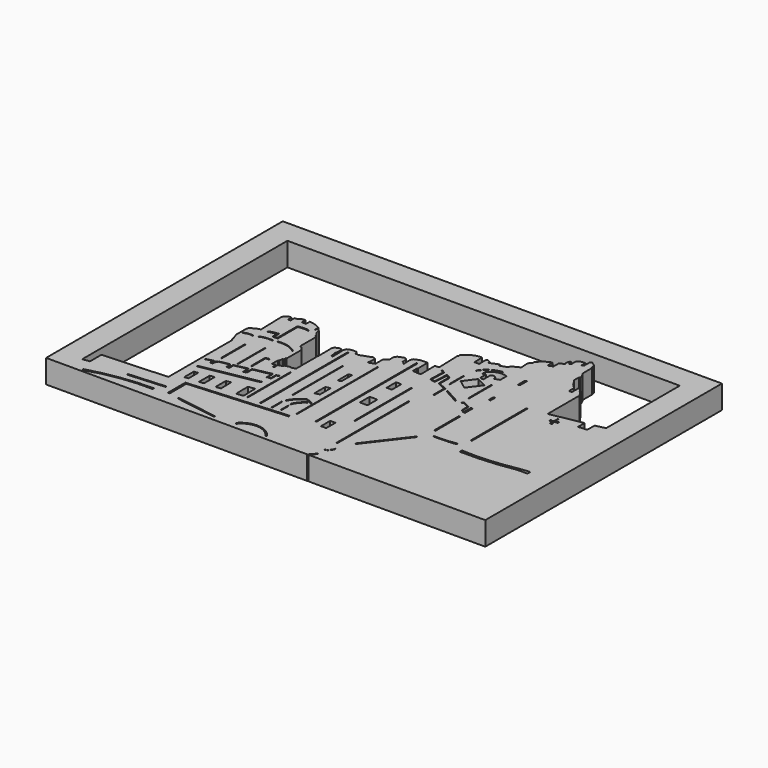
from build123d import *

# Parameters (mm, degrees)
F0_W     = 5.703181
F0_H     = 12.547013
F0_W_2   = 8.310363
F0_H_2   = 13.361752
F0_W_3   = 1.173794
F0_H_3   = 137.001861
F0_H_4   = 12.87292
F1_DEPTH = 25.4


with BuildPart() as f1:
    # F0 (on Top) → F1 (new body)
    with BuildSketch(Plane.XY):
        with BuildLine():
            Line((-166.419402, 0), (0, 0))
            Line((0, 0), (25.4, 0))
            Line((25.4, 0), (25.4, 320.76581))
            Line((25.4, 320.76581), (-450.85, 320.76581))
            Line((-450.85, 320.76581), (-450.85, 0))
            Line((-450.85, 0), (-425.45, 0))
            Line((-425.45, 0), (-167.698771, 0))
            ThreePointArc((-167.698771, 0), (-164.538102, 3.268741), (-161.885396, 6.96166))
            Line((-161.885396, 6.96166), (-161.205068, 6.33493))
            ThreePointArc((-161.205068, 6.33493), (-163.513103, 2.921247), (-166.419402, 0))
        make_face()
        with BuildLine():
            ThreePointArc((-413.735271, 3.597007), (-379.616688, 10.958901), (-344.81293, 13.599655))
            Line((-344.81293, 13.599655), (-344.538897, 11.68134))
            ThreePointArc((-344.538897, 11.68134), (-379.151449, 9.696986), (-412.913144, 1.815715))
            Line((-412.913144, 1.815715), (-413.735271, 3.597007))
        make_face(mode=Mode.SUBTRACT)
        Polygon((-378.246427, 18.806513), (-378.383458, 20.176737), (-338.646919, 22.780167), (-338.565882, 21.543295), align=None, mode=Mode.SUBTRACT)
        Polygon((-337.461114, 58.438767), (-333.183706, 59.131298), (-333.183706, 45.932494), (-337.461114, 45.484386), align=None, mode=Mode.SUBTRACT)
        Polygon((-272.280157, 4.340884), (-317.284077, 11.510602), (-317.284077, 12.977137), (-272.280157, 5.807417), align=None, mode=Mode.SUBTRACT)
        with BuildLine():
            Line((-215.356663, 5.197097), (-216.315821, 3.826871))
            ThreePointArc((-216.315821, 3.826871), (-232.387056, 13.686317), (-249.612302, 6.019232))
            Line((-249.612302, 6.019232), (-250.708491, 7.526481))
            ThreePointArc((-250.708491, 7.526481), (-232.467344, 14.940032), (-215.356663, 5.197097))
        make_face(mode=Mode.SUBTRACT)
        Polygon((-223.524138, 46.037544), (-223.270327, 44.530902), (-328.371912, 37.035283), (-328.371912, 14.548433), (-330.393344, 14.548433), (-330.393344, 38.28638), align=None, mode=Mode.SUBTRACT)
        Polygon((-317.337006, 61.738469), (-317.284077, 47.1403), (-322.306931, 46.625022), (-322.306931, 61.127413), align=None, mode=Mode.SUBTRACT)
        Polygon((-300.425321, 62.836416), (-300.134629, 48.884317), (-305.56044, 47.915421), (-305.56044, 62.061299), align=None, mode=Mode.SUBTRACT)
        Polygon((-277.268708, 66.324443), (-276.784241, 50.143879), (-284.244746, 49.271874), (-284.341633, 65.549321), align=None, mode=Mode.SUBTRACT)
        Polygon((-244.282936, 47.928814), (-245.104954, 48.096821), (-245.104954, 62.048919), (-244.282936, 62.074723), align=None, mode=Mode.SUBTRACT)
        Polygon((-235.393118, 49.188375), (-236.191109, 49.453273), (-236.191109, 59.529789), (-235.393118, 59.795786), align=None, mode=Mode.SUBTRACT)
        Polygon((-335.089654, 92.287287), (-335.089654, 124.076515), (-334.130496, 124.350555), (-334.130496, 92.287287), align=None, mode=Mode.SUBTRACT)
        with BuildLine():
            Line((-339.318782, 141.643718), (-339.261174, 140.779555))
            ThreePointArc((-339.261174, 140.779555), (-344.648349, 141.272833), (-349.631131, 139.166445))
            Line((-349.631131, 139.166445), (-349.803984, 140.261054))
            ThreePointArc((-349.803984, 140.261054), (-344.693209, 141.952069), (-339.318782, 141.643718))
        make_face(mode=Mode.SUBTRACT)
        Polygon((-341.726494, 68.89362), (-280.53686, 79.993084), (-280.708703, 78.696711), (-341.504304, 67.668722), align=None, mode=Mode.SUBTRACT)
        Polygon((-273.009151, 50.034616), (-273.009151, 108.749703), (-272.101462, 108.749703), (-272.101462, 50.183747), align=None, mode=Mode.SUBTRACT)
        Polygon((-344.308555, 82.124658), (-344.356984, 82.851328), (-336.702704, 84.78912), (-336.409608, 80.748047), (-334.958702, 80.816649), (-334.66804, 84.49845), (-332.924008, 86.242467), (-322.072387, 88.374034), (-320.909709, 87.211363), (-320.812821, 82.948215), (-318.971902, 83.04511), (-318.971902, 88.761598), (-305.019826, 91.86206), (-304.14781, 90.602495), (-303.954035, 84.982902), (-301.919341, 85.079789), (-301.822454, 93.024738), (-283.219665, 96.997209), (-282.250762, 96.222088), (-282.250762, 89.439824), (-279.150307, 89.730486), (-279.150307, 96.997209), (-275.565386, 97.966105), (-275.516957, 97.14254), (-278.32675, 96.270531), (-278.32675, 89.342929), (-282.832116, 88.906929), (-283.025891, 95.786087), (-301.095784, 92.201173), (-301.192671, 84.643781), (-304.690414, 84.390092), (-305.115642, 90.252917), (-305.649608, 90.699382), (-318.196803, 88.277146), (-318.196803, 82.318433), (-321.433271, 82.469685), (-321.433271, 86.726911), (-322.120816, 87.502025), (-332.536459, 85.612684), (-333.844453, 84.207781), (-334.377348, 79.993084), (-337.138712, 79.896197), (-337.419349, 83.76548), align=None, mode=Mode.SUBTRACT)
        with BuildLine():
            Line((-226.92622, 74.947481), (-226.394817, 74.081533))
            ThreePointArc((-226.394817, 74.081533), (-232.028736, 69.191094), (-235.780865, 62.742919))
            Line((-235.780865, 62.742919), (-236.730827, 63.103237))
            ThreePointArc((-236.730827, 63.103237), (-232.811377, 69.83896), (-226.92622, 74.947481))
        make_face(mode=Mode.SUBTRACT)
        with BuildLine():
            ThreePointArc((-222.336039, 73.618062), (-226.316974, 76.158174), (-230.746631, 77.794681))
            ThreePointArc((-230.746631, 77.794681), (-237.905795, 72.593653), (-242.94596, 65.320341))
            Line((-242.94596, 65.320341), (-243.866169, 65.751006))
            ThreePointArc((-243.866169, 65.751006), (-238.501276, 73.436967), (-230.862225, 78.868448))
            ThreePointArc((-230.862225, 78.868448), (-226.395313, 77.323097), (-222.336039, 74.901589))
            Line((-222.336039, 74.901589), (-222.336039, 73.618062))
        make_face(mode=Mode.SUBTRACT)
        Polygon((-232.903227, 105.900668), (-227.851838, 107.448675), (-227.851838, 92.457443), (-232.903227, 91.316804), align=None, mode=Mode.SUBTRACT)
        Polygon((-317.550749, 92.492811), (-317.550749, 130.036995), (-316.797137, 130.311042), (-316.797137, 92.698351), align=None, mode=Mode.SUBTRACT)
        Polygon((-305.043301, 115.345323), (-305.043301, 96.718721), (-306.059301, 96.718721), (-306.059301, 116.290301), (-301.629565, 116.611588), (-301.556068, 115.59825), align=None, mode=Mode.SUBTRACT)
        with BuildLine():
            Line((-320.652872, 145.215586), (-320.71048, 144.351423))
            ThreePointArc((-320.71048, 144.351423), (-327.937868, 144.515475), (-334.882766, 142.507881))
            Line((-334.882766, 142.507881), (-335.113198, 143.256813))
            ThreePointArc((-335.113198, 143.256813), (-328.010201, 145.174984), (-320.652872, 145.215586))
        make_face(mode=Mode.SUBTRACT)
        with BuildLine():
            Line((-295.649707, 140.721932), (-295.937806, 140.088215))
            ThreePointArc((-295.937806, 140.088215), (-305.586707, 144.837025), (-316.332042, 145.273194))
            Line((-316.332042, 145.273194), (-316.447258, 146.079749))
            ThreePointArc((-316.447258, 146.079749), (-305.477763, 145.616215), (-295.649707, 140.721932))
        make_face(mode=Mode.SUBTRACT)
        Polygon((-256.78435, 48.678163), (-257.894367, 48.678163), (-257.894367, 167.271003), (-256.78435, 167.555511), align=None, mode=Mode.SUBTRACT)
        Polygon((-245.685726, 77.029936), (-245.685726, 145.40419), (-244.960845, 145.40419), (-244.960845, 76.925404), align=None, mode=Mode.SUBTRACT)
        Polygon((-220.534191, 51.938567), (-221.270114, 51.972404), (-221.270114, 162.814081), (-220.534191, 162.814081), align=None, mode=Mode.SUBTRACT)
        Polygon((-232.169956, 135.638714), (-228.748053, 137.757033), (-228.748053, 122.847281), (-232.169956, 121.869586), align=None, mode=Mode.SUBTRACT)
        with BuildLine():
            Line((-161.245793, 15.256343), (-161.497831, 16.069278))
            ThreePointArc((-161.497831, 16.069278), (-157.657125, 18.778953), (-155.684456, 23.045328))
            Line((-155.684456, 23.045328), (-154.93156, 22.792699))
            ThreePointArc((-154.93156, 22.792699), (-157.157073, 18.24399), (-161.245793, 15.256343))
        make_face(mode=Mode.SUBTRACT)
        with Locations((-188.011006, 53.83872)):
            Rectangle(F0_W, F0_H, mode=Mode.SUBTRACT)
        Polygon((-161.586136, 31.625599), (-161.586136, 129.677847), (-160.502689, 130.038996), (-160.502689, 32.638028), align=None, mode=Mode.SUBTRACT)
        Polygon((-147.815436, 41.940723), (-115.553334, 83.881453), (-114.823222, 82.859501), (-147.815436, 39.841175), align=None, mode=Mode.SUBTRACT)
        with Locations((-188.173958, 108.833738)):
            Rectangle(F0_W_2, F0_H_2, mode=Mode.SUBTRACT)
        with Locations((-199.367508, 120.085781)):
            Rectangle(F0_W_3, F0_H_3, mode=Mode.SUBTRACT)
        Polygon((-175.150678, 73.094338), (-175.150678, 150.218442), (-174.133241, 150.218442), (-174.133241, 72.785638), align=None, mode=Mode.SUBTRACT)
        with Locations((-188.662798, 143.786125)):
            Rectangle(F0_W, F0_H_4, mode=Mode.SUBTRACT)
        Polygon((-109.864541, 101.444872), (-111.203551, 100.998536), (-111.203551, 134.909898), (-109.864541, 134.909898), align=None, mode=Mode.SUBTRACT)
        with BuildLine():
            ThreePointArc((-80.407061, 93.389705), (-92.692464, 92.394067), (-105.017014, 92.227034))
            Line((-105.017014, 92.227034), (-105.017014, 93.311146))
            ThreePointArc((-105.017014, 93.311146), (-92.662771, 93.488007), (-80.407053, 95.055163))
            Line((-80.407053, 95.055163), (-80.407061, 93.389705))
        make_face(mode=Mode.SUBTRACT)
        with BuildLine():
            Line((-11.367482, 91.576859), (0, 92.802502))
            Line((0, 92.802502), (0, 88.836409))
            Line((0, 88.836409), (-10.819401, 88.836409))
            ThreePointArc((-10.819401, 88.836409), (-40.166394, 85.127571), (-69.739096, 84.45169))
            Line((-69.739096, 84.45169), (-69.739096, 87.466188))
            ThreePointArc((-69.739096, 87.466188), (-40.422094, 87.658553), (-11.367482, 91.576859))
        make_face(mode=Mode.SUBTRACT)
        Polygon((-75.548187, 106.230579), (-75.548187, 181.998223), (-74.306914, 182.177559), (-74.306914, 106.269543), align=None, mode=Mode.SUBTRACT)
        with BuildLine():
            ThreePointArc((-320.930719, 178.112566), (-314.650857, 179.036367), (-308.335066, 178.403229))
            Line((-308.335066, 178.403229), (-308.335066, 177.240551))
            ThreePointArc((-308.335066, 177.240551), (-314.051554, 177.914483), (-319.768041, 177.240551))
            Line((-319.768041, 177.240551), (-319.768041, 150.208369))
            Line((-319.768041, 150.208369), (-325.581431, 150.208369))
            Line((-325.581431, 150.208369), (-325.484514, 156.118631))
            ThreePointArc((-325.484514, 156.118631), (-329.909319, 155.637966), (-334.204584, 154.471502))
            Line((-334.204584, 154.471502), (-334.398359, 155.827954))
            ThreePointArc((-334.398359, 155.827954), (-329.41645, 157.056781), (-324.321866, 157.668859))
            Line((-324.321866, 157.668859), (-324.321866, 151.371047))
            Line((-324.321866, 151.371047), (-320.930719, 151.371047))
            Line((-320.930719, 151.371047), (-320.930719, 178.112566))
        make_face(mode=Mode.SUBTRACT)
        with BuildLine():
            Line((-348.190367, 37.38666), (-417.821884, 33.794556))
            Line((-417.821884, 33.794556), (-417.821884, 18.215073))
            Line((-417.821884, 18.215073), (-425.45, 17.244627))
            Line((-425.45, 17.244627), (-425.45, 295.36581))
            Line((-425.45, 295.36581), (0, 295.36581))
            Line((0, 295.36581), (0, 195.700794))
            Line((0, 195.700794), (-10.627794, 193.160787))
            Line((-10.627794, 193.160787), (-10.627794, 183.391556))
            Line((-10.627794, 183.391556), (-20.103946, 182.512328))
            Line((-20.103946, 182.512328), (-20.103946, 191.500023))
            Line((-20.103946, 191.500023), (-55.004522, 185.150027))
            Line((-55.004522, 185.150027), (-55.004522, 228.363693))
            Line((-55.004522, 228.363693), (-58.448177, 233.22387))
            Line((-58.448177, 233.22387), (-59.183624, 233.404636))
            Line((-59.183624, 233.404636), (-59.183624, 234.5099))
            Line((-59.183624, 234.5099), (-63.259281, 239.138186))
            Line((-63.259281, 239.138186), (-64.019144, 237.480298))
            Line((-64.019144, 237.480298), (-64.019144, 229.121745))
            Line((-64.019144, 229.121745), (-67.196772, 229.121745))
            Line((-67.196772, 229.121745), (-67.196772, 235.960558))
            Line((-67.196772, 235.960558), (-70.884967, 239.767184))
            Line((-70.884967, 239.767184), (-71.686901, 239.69081))
            Line((-71.686901, 239.69081), (-71.825057, 241.141468))
            Line((-71.825057, 241.141468), (-76.177031, 247.289494))
            Line((-76.177031, 247.289494), (-76.107949, 253.85198))
            Line((-76.107949, 253.85198), (-75.279005, 254.542768))
            Line((-75.279005, 254.542768), (-75.279005, 255.924344))
            ThreePointArc((-75.279005, 255.924344), (-76.561816, 258.890807), (-78.283928, 261.625737))
            Line((-78.283928, 261.625737), (-78.283928, 274.463236))
            Line((-78.283928, 274.463236), (-79.242378, 274.956971))
            Line((-79.242378, 274.956971), (-79.242378, 276.61249))
            Line((-79.242378, 276.61249), (-78.893848, 276.873887))
            Line((-78.893848, 276.873887), (-78.893848, 277.803302))
            ThreePointArc((-78.893848, 277.803302), (-81.660262, 280.345212), (-84.830755, 282.360732))
            Line((-84.830755, 282.360732), (-86.154871, 281.172425))
            Line((-86.154871, 281.172425), (-86.154871, 274.085671))
            Line((-86.154871, 274.085671), (-88.420309, 272.052586))
            Line((-88.420309, 272.052586), (-88.420309, 277.861387))
            ThreePointArc((-88.420309, 277.861387), (-92.768256, 277.347222), (-96.436478, 274.957001))
            Line((-96.436478, 274.957001), (-96.436478, 268.509209))
            Line((-96.436478, 268.509209), (-97.94677, 267.754048))
            Line((-97.94677, 267.754048), (-98.581769, 268.3402))
            Line((-98.581769, 268.3402), (-98.581769, 270.391762))
            Line((-98.581769, 270.391762), (-98.152354, 270.944089))
            Line((-98.152354, 270.944089), (-98.907501, 271.931589))
            Line((-98.907501, 271.931589), (-99.836908, 271.931589))
            Line((-99.836908, 271.931589), (-101.231031, 269.956619))
            Line((-101.231031, 269.956619), (-101.231031, 267.342627))
            Line((-101.231031, 267.342627), (-100.301616, 266.122788))
            Line((-100.301616, 266.122788), (-100.301616, 265.425712))
            ThreePointArc((-100.301616, 265.425712), (-103.02324, 264.686016), (-105.529554, 263.392657))
            Line((-105.529554, 263.392657), (-105.529554, 256.073564))
            Line((-105.529554, 256.073564), (-110.583231, 254.156649))
            Line((-110.583231, 254.156649), (-110.583231, 259.675026))
            Line((-110.583231, 259.675026), (-110.989846, 259.675026))
            Line((-110.989846, 259.675026), (-110.989846, 261.301488))
            ThreePointArc((-110.989846, 261.301488), (-117.839979, 257.53803), (-123.362631, 252.007365))
            Line((-123.362631, 252.007365), (-123.362631, 249.625757))
            Line((-123.362631, 249.625757), (-124.5244, 249.625757))
            Line((-124.5244, 249.625757), (-126.208961, 246.372819))
            Line((-126.208961, 246.372819), (-125.628069, 237.717673))
            Line((-125.628069, 237.717673), (-134.399384, 233.41915))
            Line((-134.399384, 233.41915), (-134.399384, 231.153712))
            Line((-134.399384, 231.153712), (-142.996445, 228.191212))
            Line((-142.996445, 228.191212), (-143.170714, 230.747089))
            Line((-143.170714, 230.747089), (-152.813345, 226.739004))
            Line((-152.813345, 226.739004), (-152.75526, 228.365466))
            ThreePointArc((-152.75526, 228.365466), (-154.476058, 229.789918), (-156.589076, 230.514735))
            Line((-156.589076, 230.514735), (-157.80893, 228.655905))
            Line((-157.80893, 228.655905), (-157.402322, 220.349297))
            Line((-157.402322, 220.349297), (-162.688345, 220.465481))
            Line((-162.688345, 220.465481), (-162.978783, 231.269881))
            ThreePointArc((-162.978783, 231.269881), (-172.68156, 229.029173), (-180.34716, 222.67282))
            Line((-180.34716, 222.67282), (-180.34716, 220.988274))
            Line((-180.34716, 220.988274), (-180.986136, 220.349297))
            Line((-180.986136, 220.349297), (-180.172905, 194.441974))
            Line((-180.172905, 194.441974), (-184.645697, 194.32579))
            Line((-184.645697, 194.32579), (-184.297174, 174.750075))
            Line((-184.297174, 174.750075), (-189.060405, 174.517721))
            Line((-189.060405, 174.517721), (-189.00232, 175.098598))
            Line((-189.00232, 175.098598), (-192.545697, 175.040513))
            Line((-192.545697, 175.040513), (-193.417013, 175.737575))
            Line((-193.417013, 175.737575), (-193.533182, 180.675074))
            Line((-193.533182, 180.675074), (-192.778051, 181.54639))
            Line((-192.778051, 181.54639), (-193.01039, 194.848582))
            Line((-193.01039, 194.848582), (-200.852305, 194.732413))
            Line((-200.852305, 194.732413), (-206.603035, 192.23462))
            Line((-206.603035, 192.23462), (-207.706705, 189.678743))
            Line((-207.706705, 189.678743), (-207.474351, 180.500805))
            Line((-207.474351, 180.500805), (-209.158912, 182.359621))
            Line((-209.158912, 182.359621), (-210.753344, 183.114767))
            Line((-210.753344, 183.114767), (-210.753344, 187.43216))
            Line((-210.753344, 187.43216), (-211.59862, 189.097852))
            Line((-211.59862, 189.097852), (-213.631704, 189.969182))
            Line((-213.631704, 189.969182), (-220.253766, 187.413305))
            Line((-220.253766, 187.413305), (-221.938312, 184.39272))
            Line((-221.938312, 184.39272), (-221.938312, 178.70006))
            Line((-221.938312, 178.70006), (-225.830227, 176.72506))
            Line((-225.830227, 176.72506), (-226.353019, 174.75006))
            Line((-226.353019, 174.75006), (-226.353019, 165.630221))
            Line((-226.353019, 165.630221), (-233.062208, 163.393825))
            Line((-233.062208, 163.393825), (-233.062208, 164.410368))
            Line((-233.062208, 164.410368), (-232.48446, 164.864868))
            Line((-232.48446, 164.864868), (-232.208148, 171.6346))
            Line((-232.208148, 171.6346), (-232.898936, 173.223421))
            Line((-232.898936, 173.223421), (-235.040382, 173.914209))
            Line((-235.040382, 173.914209), (-247.819945, 169.285938))
            Line((-247.819945, 169.285938), (-249.754146, 169.838563))
            Line((-249.754146, 169.838563), (-251.204818, 169.285938))
            Line((-251.204818, 169.285938), (-250.928491, 169.907644))
            Line((-250.928491, 169.907644), (-250.721246, 170.253038))
            Line((-250.721246, 170.253038), (-252.517313, 172.947124))
            Line((-252.517313, 172.947124), (-257.76729, 173.085272))
            Line((-257.76729, 173.085272), (-262.464672, 171.151072))
            Line((-262.464672, 171.151072), (-263.224542, 168.456987))
            Line((-263.224542, 168.456987), (-262.879133, 153.950423))
            Line((-262.879133, 153.950423), (-264.606118, 153.190553))
            Line((-264.606118, 153.190553), (-264.744282, 158.302397))
            Line((-264.744282, 158.302397), (-265.365988, 158.647791))
            Line((-265.365988, 158.647791), (-265.227824, 160.927385))
            Line((-265.227824, 160.927385), (-264.813364, 161.8945))
            Line((-264.813364, 161.8945), (-264.813364, 166.86818))
            Line((-264.813364, 166.86818), (-265.504152, 168.526068))
            Line((-265.504152, 168.526068), (-267.438352, 169.078693))
            Line((-267.438352, 169.078693), (-271.790326, 167.558968))
            Line((-271.790326, 167.558968), (-273.182184, 165.14121))
            Line((-273.182184, 165.14121), (-272.895604, 146.869838))
            Line((-272.895604, 146.869838), (-273.182184, 145.819694))
            Line((-273.182184, 145.819694), (-273.182184, 116.65675))
            Line((-273.182184, 116.65675), (-278.439939, 115.41117))
            Line((-278.439939, 115.41117), (-278.439939, 116.398342))
            Line((-278.439939, 116.398342), (-284.597307, 114.655696))
            Line((-284.597307, 114.655696), (-284.539223, 113.493934))
            Line((-284.539223, 113.493934), (-289.418608, 112.099819))
            Line((-289.418608, 112.099819), (-289.302438, 107.104234))
            Line((-289.302438, 107.104234), (-290.638477, 106.871881))
            Line((-290.638477, 106.871881), (-290.522307, 111.344673))
            Line((-290.522307, 111.344673), (-291.771084, 111.55989))
            Line((-291.771084, 111.55989), (-294.701844, 110.8272))
            Line((-294.701844, 110.8272), (-294.701844, 119.131044))
            Line((-294.701844, 119.131044), (-293.724924, 119.863741))
            Line((-293.724924, 119.863741), (-293.236464, 123.722583))
            Line((-293.236464, 123.722583), (-291.966468, 123.722583))
            Line((-291.966468, 123.722583), (-291.966468, 124.992587))
            Line((-291.966468, 124.992587), (-291.966468, 126.555666))
            Line((-291.966468, 126.555666), (-291.120111, 126.555666))
            Line((-291.120111, 126.555666), (-291.120111, 146.768376))
            Line((-291.120111, 146.768376), (-294.623968, 150.541672))
            Line((-294.623968, 150.541672), (-294.99492, 150.197208))
            Line((-294.99492, 150.197208), (-296.264946, 151.564896))
            Line((-296.264946, 151.564896), (-296.264946, 172.764122))
            Line((-296.264946, 172.764122), (-298.121095, 174.424902))
            Line((-298.121095, 174.424902), (-298.121095, 175.597206))
            Line((-298.121095, 175.597206), (-301.149547, 179.407209))
            Line((-301.149547, 179.407209), (-301.149547, 182.631046))
            Line((-301.149547, 182.631046), (-304.861844, 186.147973))
            Line((-304.861844, 186.147973), (-304.861844, 182.631046))
            Line((-304.861844, 182.631046), (-305.545688, 182.631046))
            Line((-305.545688, 182.631046), (-305.545688, 187.320277))
            ThreePointArc((-305.545688, 187.320277), (-311.494652, 190.082189), (-317.952633, 191.227973))
            Line((-317.952633, 191.227973), (-317.952633, 185.854897))
            ThreePointArc((-317.952633, 185.854897), (-320.234219, 186.223533), (-322.544158, 186.147973))
            Line((-322.544158, 186.147973), (-322.544158, 191.423357))
            ThreePointArc((-322.544158, 191.423357), (-326.281084, 190.626735), (-329.38239, 188.394889))
            Line((-329.38239, 188.394889), (-332.020313, 188.394889))
            Line((-332.020313, 188.394889), (-332.020313, 182.82643))
            Line((-332.020313, 182.82643), (-334.853381, 182.728738))
            Line((-334.853381, 182.728738), (-334.853381, 187.808737))
            ThreePointArc((-334.853381, 187.808737), (-339.359412, 186.464506), (-342.08262, 182.631046))
            Line((-342.08262, 182.631046), (-341.295613, 154.365051))
            ThreePointArc((-341.295613, 154.365051), (-347.059094, 152.393646), (-351.851821, 148.634136))
            Line((-351.851821, 148.634136), (-351.851821, 133.003354))
            Line((-351.851821, 133.003354), (-350.581795, 131.440282))
            Line((-350.581795, 131.440282), (-350.581795, 129.486427))
            Line((-350.581795, 129.486427), (-349.507183, 127.923355))
            Line((-349.507183, 127.923355), (-349.507183, 125.187978))
            Line((-349.507183, 125.187978), (-348.190367, 123.624891))
            Line((-348.190367, 123.624891), (-348.190367, 120.557651))
            Line((-348.190367, 120.557651), (-348.190367, 37.38666))
        make_face(mode=Mode.SUBTRACT)
        Polygon((-151.521137, 166.96286), (-151.521137, 151.565492), (-152.537137, 151.565492), (-152.537137, 166.32917), (-162.032306, 170.979882), (-162.032306, 184.258367), (-165.406624, 186.215464), (-166.342308, 171.150844), (-172.304936, 172.317437), (-171.819793, 189.103782), (-174.851159, 190.861968), (-174.341415, 191.74084), (-170.786741, 189.679136), (-171.264475, 173.149133), (-167.284514, 172.37045), (-166.318771, 187.919031), (-161.016306, 184.843612), (-161.016306, 171.613572), align=None, mode=Mode.SUBTRACT)
        Polygon((-154.291689, 175.54915), (-154.291689, 194.458261), (-153.507577, 194.719632), (-153.507577, 175.54915), align=None, mode=Mode.SUBTRACT)
        Polygon((-147.626609, 165.219799), (-131.320924, 156.313345), (-130.909845, 154.669061), (-147.256011, 163.663796), align=None, mode=Mode.SUBTRACT)
        Polygon((-110.777758, 152.921945), (-110.777758, 142.264083), (-111.259401, 142.533645), (-111.288205, 152.269885), (-112.123564, 152.385101), (-112.440422, 142.418414), (-112.814896, 142.792881), (-116.156325, 145.154938), (-116.156325, 152.990013), (-122.723967, 156.273827), (-124.632969, 155.179232), (-124.632969, 156.216189), (-122.792065, 157.185078), (-115.428455, 153.503284), (-115.52535, 145.65523), (-112.909332, 143.911213), (-112.71555, 153.309494), align=None, mode=Mode.SUBTRACT)
        Polygon((-140.767082, 198.458597), (-129.52894, 192.708537), (-140.129343, 178.536266), (-150.093716, 185.989297), align=None, mode=Mode.SUBTRACT)
        Polygon((-125.516951, 165.546492), (-125.516951, 196.513593), (-124.65051, 196.802407), (-124.65051, 165.834039), align=None, mode=Mode.SUBTRACT)
        Polygon((-108.228147, 180.964127), (-108.228147, 174.375638), (-110.069051, 173.697412), (-110.069051, 180.285901), align=None, mode=Mode.SUBTRACT)
        with BuildLine():
            Line((-144.259781, 208.082572), (-144.259781, 211.667478))
            ThreePointArc((-144.259781, 211.667478), (-135.759107, 217.697175), (-125.341699, 217.386827))
            Line((-125.341699, 217.386827), (-125.341699, 208.802819))
            Line((-125.341699, 208.802819), (-130.785927, 206.844047))
            Line((-130.785927, 206.844047), (-130.785927, 209.090874))
            Line((-130.785927, 209.090874), (-133.781701, 211.510524))
            Line((-133.781701, 211.510524), (-137.094319, 209.60936))
            Line((-137.094319, 209.60936), (-137.094319, 200.622067))
            Line((-137.094319, 200.622067), (-139.705971, 200.279519))
            Line((-139.705971, 200.279519), (-139.705971, 201.106519))
            Line((-139.705971, 201.106519), (-140.965536, 201.106519))
            Line((-140.965536, 201.106519), (-140.965536, 208.857685))
            Line((-140.965536, 208.857685), (-144.259781, 208.082572))
        make_face(mode=Mode.SUBTRACT)
        with BuildLine():
            Line((-132.51844, 221.644729), (-132.244393, 220.754087))
            ThreePointArc((-132.244393, 220.754087), (-143.342811, 217.220306), (-151.564568, 208.970144))
            Line((-151.564568, 208.970144), (-152.112663, 209.586754))
            ThreePointArc((-152.112663, 209.586754), (-143.656262, 217.794397), (-132.51844, 221.644729))
        make_face(mode=Mode.SUBTRACT)
        Polygon((-108.119972, 220.193774), (-106.18218, 220.872), (-106.18218, 211.861268), (-108.023085, 210.989252), align=None, mode=Mode.SUBTRACT)
        with BuildLine():
            Line((-42.601649, 178.047732), (-42.601649, 183.059886))
            Line((-42.601649, 183.059886), (-41.665513, 183.059886))
            Line((-41.665513, 183.059886), (-41.665513, 178.471297))
            Line((-41.665513, 178.471297), (-39.751947, 178.616628))
            ThreePointArc((-39.751947, 178.616628), (-39.24739, 179.03349), (-38.734604, 179.440185))
            ThreePointArc((-38.734604, 179.440185), (-37.891565, 178.488699), (-38.298603, 177.28439))
            Line((-38.298603, 177.28439), (-40.987287, 177.28439))
            Line((-40.987287, 177.28439), (-41.520178, 176.775724))
            Line((-41.520178, 176.775724), (-41.188522, 175.169407))
            ThreePointArc((-41.188522, 175.169407), (-40.874781, 174.589674), (-40.478617, 174.062818))
            ThreePointArc((-40.478617, 174.062818), (-41.823305, 172.704419), (-43.143082, 174.087033))
            ThreePointArc((-43.143082, 174.087033), (-42.690668, 174.669074), (-42.464852, 175.370827))
            Line((-42.464852, 175.370827), (-42.464852, 176.848397))
            Line((-42.464852, 176.848397), (-44.3542, 176.848397))
            Line((-44.3542, 176.848397), (-44.596426, 176.581949))
            ThreePointArc((-44.596426, 176.581949), (-44.932727, 176.133347), (-45.444209, 175.903723))
            ThreePointArc((-45.444209, 175.903723), (-46.352365, 177.006355), (-45.613766, 178.229064))
            ThreePointArc((-45.613766, 178.229064), (-45.043985, 177.976597), (-44.547979, 177.599281))
            Line((-44.547979, 177.599281), (-43.579083, 177.599281))
            Line((-43.579083, 177.599281), (-43.288413, 178.047732))
            Line((-43.288413, 178.047732), (-42.601649, 178.047732))
        make_face(mode=Mode.SUBTRACT)
    extrude(amount=F1_DEPTH)


solid = f1.part
